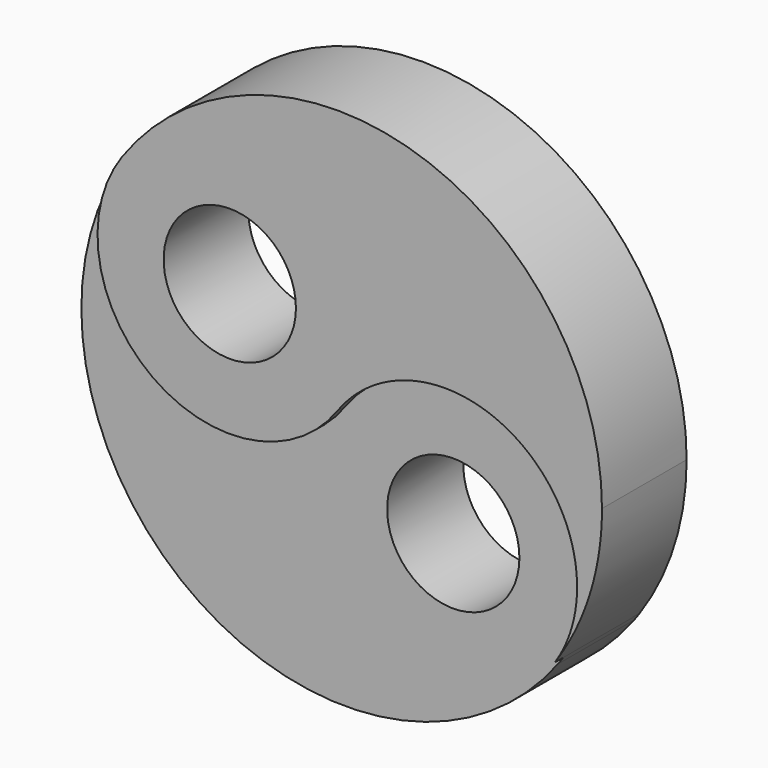
from build123d import *

# Parameters (mm, degrees)
F0_R     = 3.175
F1_DEPTH = 5.08
F2_DEPTH = 4.572


with BuildPart() as f1:
    # F0 (on Front) → F1 (new body)
    with BuildSketch(Plane.XZ):
        with BuildLine():
            ThreePointArc((-6.994025, -23.133497), (-5.305895, -19.684991), (-4.725502, -15.889583))
            ThreePointArc((-4.725502, -15.889583), (-13.550854, -3.795076), (-27.761266, -8.509747))
            ThreePointArc((-27.761266, -8.509747), (-26.283302, -17.367547), (-17.425502, -15.889583))
            Line((-17.425502, -15.889583), (-17.423993, -15.89067))
            ThreePointArc((-17.423993, -15.89067), (-8.669122, -14.371682), (-6.96701, -23.092801))
            ThreePointArc((-6.96701, -23.092801), (-6.980479, -23.113175), (-6.994025, -23.133497))
        make_face()
        with Locations((-22.593384, -12.199665)):
            Circle(F0_R, mode=Mode.SUBTRACT)
    extrude(amount=F1_DEPTH)

    # F0 (on Front) → F2 (join)
    with BuildSketch(Plane.XZ):
        with BuildLine():
            ThreePointArc((-6.994025, -23.133497), (-5.305895, -19.684991), (-4.725502, -15.889583))
            ThreePointArc((-4.725502, -15.889583), (-13.550854, -3.795076), (-27.761266, -8.509747))
            ThreePointArc((-27.761266, -8.509747), (-26.283302, -17.367547), (-17.425502, -15.889583))
            Line((-17.425502, -15.889583), (-17.423993, -15.89067))
            ThreePointArc((-17.423993, -15.89067), (-8.669122, -14.371682), (-6.96701, -23.092801))
            ThreePointArc((-6.96701, -23.092801), (-6.980479, -23.113175), (-6.994025, -23.133497))
        make_face()
        with Locations((-22.593384, -12.199665)):
            Circle(F0_R, mode=Mode.SUBTRACT)
        with BuildLine():
            ThreePointArc((-17.425502, -15.889583), (-26.283302, -17.367547), (-27.761266, -8.509747))
            ThreePointArc((-27.761266, -8.509747), (-24.914099, -26.14682), (-7.247936, -23.486106))
            ThreePointArc((-7.247936, -23.486106), (-7.131138, -23.327061), (-7.016825, -23.166221))
            ThreePointArc((-7.016825, -23.166221), (-6.991661, -23.129685), (-6.96701, -23.092801))
            ThreePointArc((-6.96701, -23.092801), (-8.669122, -14.371682), (-17.423993, -15.89067))
            Line((-17.423993, -15.89067), (-17.425502, -15.889583))
        make_face()
        with Locations((-12.270978, -19.601322)):
            Circle(F0_R, mode=Mode.SUBTRACT)
        with BuildLine():
            ThreePointArc((-7.247936, -23.486106), (-7.117964, -23.311974), (-6.994025, -23.133497))
            ThreePointArc((-6.994025, -23.133497), (-7.005412, -23.149868), (-7.016825, -23.166221))
            ThreePointArc((-7.016825, -23.166221), (-7.131138, -23.327061), (-7.247936, -23.486106))
        make_face()
    extrude(amount=F2_DEPTH)


solid = f1.part
